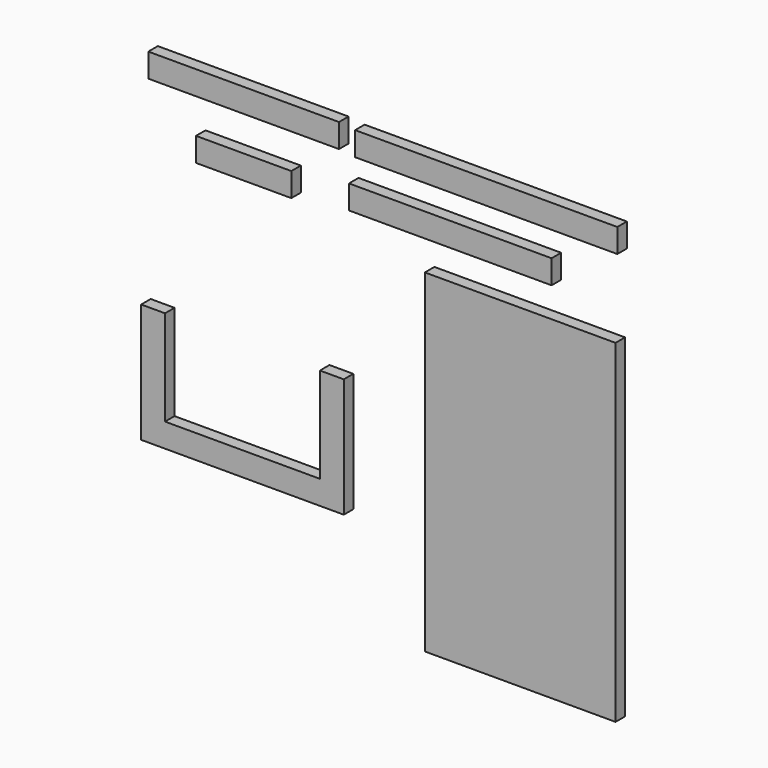
from build123d import *

# Parameters (mm, degrees)
F0_W     = 50.8
F0_H     = 88.9
F1_DEPTH = 3.175
F3_DEPTH = 3.175
F4_W     = 50.8
F4_H     = 6.35
F4_W_2   = 25.4
F4_W_3   = 53.975
F4_W_4   = 69.85
F5_DEPTH = 3.175


with BuildPart() as f1:
    # F0 (on Front) → F1 (new body)
    with BuildSketch(Plane.XZ):
        Rectangle(F0_W, F0_H)
    extrude(amount=F1_DEPTH)


with BuildPart() as f3:
    # F2 (on Front) → F3 (new body)
    with BuildSketch(Plane.XZ):
        Polygon((-94.632274, 12.349087), (-100.982274, 12.349087), (-100.982274, -19.400913), (-47.007274, -19.400913), (-47.007274, 12.349087), (-53.357274, 12.349087), (-53.357274, -13.050913), (-94.632274, -13.050913), align=None)
    extrude(amount=F3_DEPTH)


with BuildPart() as f5:
    # F4 (on Front) → F5 (new body)
    with BuildSketch(Plane.XZ):
        with Locations((-73.681198, 69.10545)):
            Rectangle(F4_W, F4_H)
        with Locations((-73.681198, 53.474675)):
            Rectangle(F4_W_2, F4_H)
        with Locations((-18.627363, 55.574397)):
            Rectangle(F4_W_3, F4_H)
        with Locations((-9.061456, 68.601648)):
            Rectangle(F4_W_4, F4_H)
    extrude(amount=F5_DEPTH)


solid = Compound([f1.part, f3.part, f5.part])
